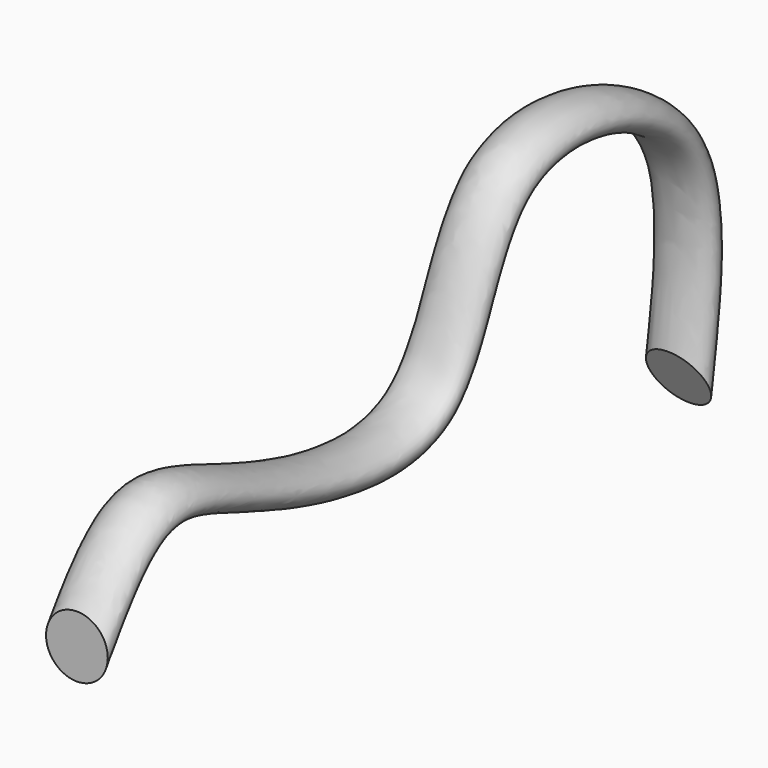
from build123d import *

# Parameters (mm, degrees)
F1_R = 10


with BuildPart() as f2:
    # F2: sweep along a path in F0
    with BuildLine(Plane.YZ) as f2_path:
        add(Plane.YZ * Edge.make_bspline(
            [(0, 0), (7.9990766786, 11.8166184541), (24.6747491005, 36.4507189125), (68.1208616329, 15.6439848407), (151.7111774811, -6.7860592998), (158.2051876108, 83.442580693), (255.8765841806, 59.8071079516), (247.8239343089, 5.7044281385), (243.6693459749, -22.2086645663)],
            knots=[0, 0, 0, 0, 0.1342550513, 0.2798814596, 0.4629038045, 0.6347096313, 0.8115364348, 1, 1, 1, 1], degree=3))
    # F1 (on Front) → F2 (sweep)
    with BuildSketch(Plane.XZ):
        Circle(F1_R)
    sweep(path=f2_path.line)


solid = f2.part
